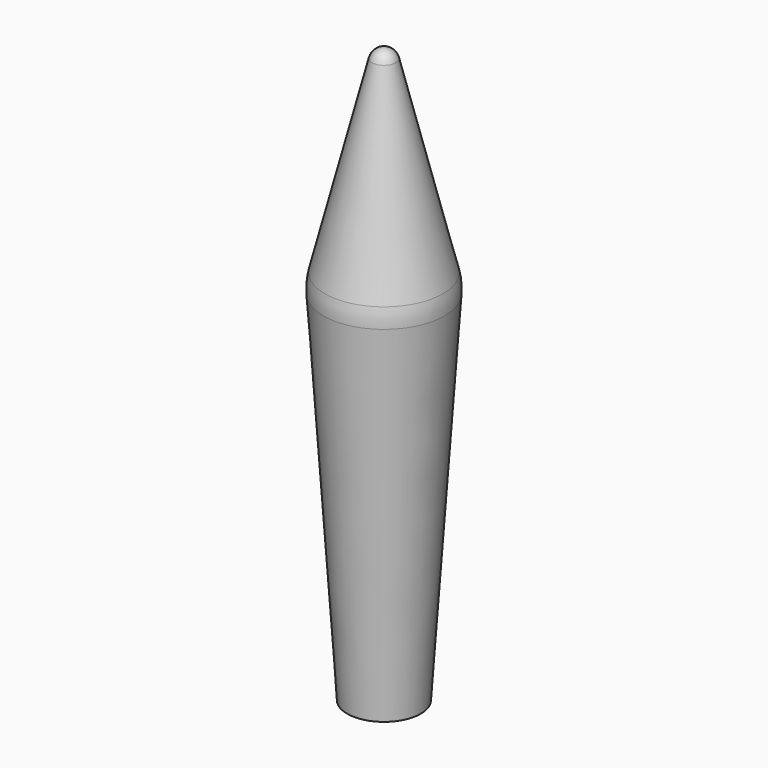
from build123d import *


with BuildPart() as f1:
    # F0 (on Front) → F1 (revolve)
    with BuildSketch(Plane.XZ):
        with BuildLine():
            Line((4.809554, 30.761784), (0.970143, 46.11943))
            ThreePointArc((0.970143, 46.11943), (0.615412, 46.6651), (0, 46.876894))
            Line((0, 46.876894), (0, 0))
            Line((0, 0), (3, 0))
            Line((3, 0), (4.947767, 29.216511))
            ThreePointArc((4.947767, 29.216511), (4.938961, 29.99454), (4.809554, 30.761784))
        make_face()
    revolve(axis=Axis((0, 0, 23.438447), (0, 0, -1)))


solid = f1.part
